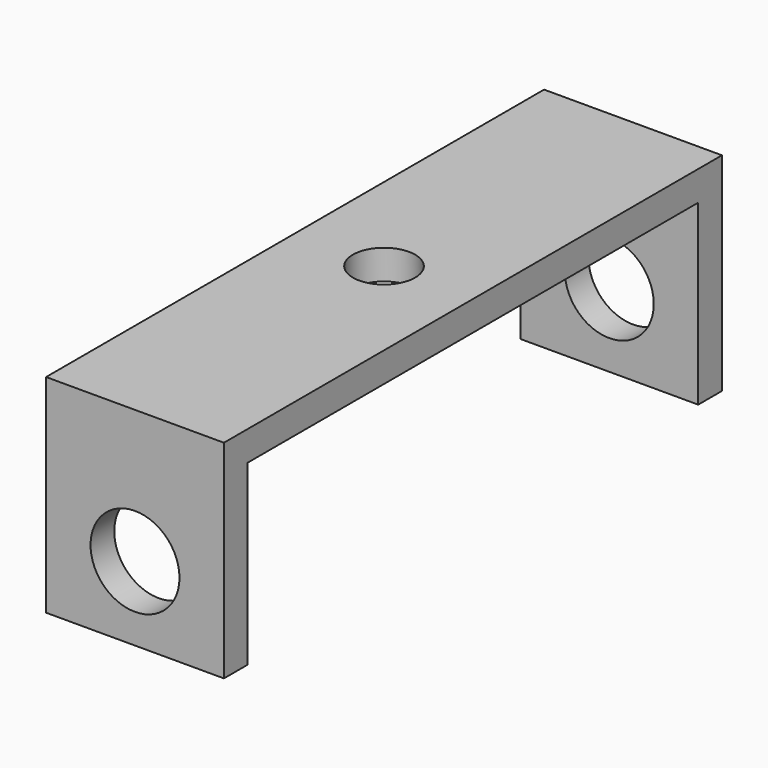
from build123d import *

# Parameters (mm, degrees)
F0_W     = 6
F0_H     = 7
F0_R     = 1.5
F1_DEPTH = 21
F2_W     = 19
F2_H     = 6
F3_DEPTH = 10.4
F4_R     = 1.05
F5_DEPTH = 25


with BuildPart() as f1:
    # F0 (on Front) → F1 (new body)
    with BuildSketch(Plane.XZ):
        with Locations((-3, -3.5)):
            Rectangle(F0_W, F0_H)
        with Locations((-3, -4.5)):
            Circle(F0_R, mode=Mode.SUBTRACT)
    extrude(amount=F1_DEPTH)

    # F2 (on face) → F3 (cut)
    with BuildSketch(Plane.YZ):
        with Locations((-10.5, -4)):
            Rectangle(F2_W, F2_H)
    extrude(amount=-F3_DEPTH, mode=Mode.SUBTRACT)

    # F4 (on face) → F5 (cut)
    with BuildSketch(Plane.XY):
        with Locations((-3, -10.5)):
            Circle(F4_R)
    extrude(amount=-F5_DEPTH, mode=Mode.SUBTRACT)


solid = f1.part
